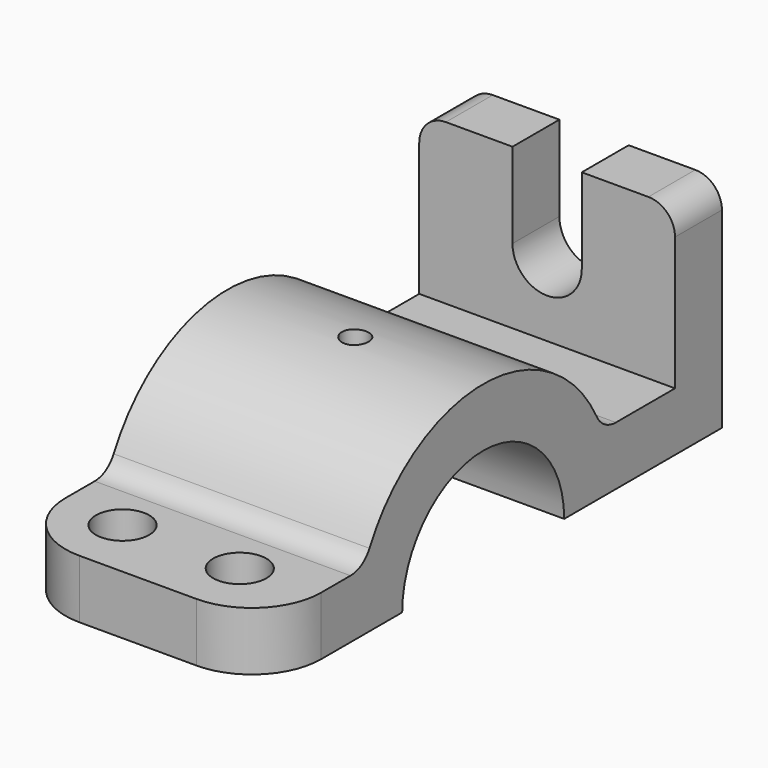
from build123d import *

# Parameters (mm, degrees)
F0_W     = 11
F0_H     = 11
F0_H_2   = 30
F1_DEPTH = 24
F3_DEPTH = 12.5
F4_R     = 2.5
F4_R_2   = 5
F5_DEPTH = 56
F6_R     = 13
F7_R     = 5
F8_R     = 5


with BuildPart() as f1:
    # F0 (on Right) → F1 (new body, symmetric)
    with BuildSketch(Plane.YZ):
        with BuildLine():
            Line((-51, 0), (-30, 0))
            ThreePointArc((-30, 0), (-29.4730143031, 5.5983415304), (-27.9105714739, 11))
            Line((-27.9105714739, 11), (-51, 11))
            Line((-51, 11), (-51, 0))
        make_face()
        with BuildLine():
            ThreePointArc((-27.9105714739, 11), (-29.4730143031, 5.5983415304), (-30, 0))
            Line((-30, 0), (-19, 0))
            ThreePointArc((-19, 0), (-18.1017503893, 5.7729223833), (-15.4919333848, 11))
            Line((-15.4919333848, 11), (-27.9105714739, 11))
        make_face()
        with BuildLine():
            Line((15.4919333848, 11), (27.9105714739, 11))
            ThreePointArc((27.9105714739, 11), (0, 30), (-27.9105714739, 11))
            Line((-27.9105714739, 11), (-15.4919333848, 11))
            ThreePointArc((-15.4919333848, 11), (0, 19), (15.4919333848, 11))
        make_face()
        with BuildLine():
            Line((19, 0), (30, 0))
            ThreePointArc((30, 0), (29.4730143031, 5.5983415304), (27.9105714739, 11))
            Line((27.9105714739, 11), (15.4919333848, 11))
            ThreePointArc((15.4919333848, 11), (18.1017503893, 5.7729223833), (19, 0))
        make_face()
        with BuildLine():
            ThreePointArc((27.9105714739, 11), (29.4730143031, 5.5983415304), (30, 0))
            Line((30, 0), (45, 0))
            Line((45, 0), (45, 11))
            Line((45, 11), (27.9105714739, 11))
        make_face()
        with Locations((50.5, 5.5)):
            Rectangle(F0_W, F0_H)
        with Locations((50.5, 26)):
            Rectangle(F0_W, F0_H_2)
    extrude(amount=F1_DEPTH, both=True)

    # F2 (on face) → F3 (cut, symmetric)
    with BuildSketch(Plane(origin=(0, 56, 0), x_dir=(-1, 0, 0), z_dir=(0, 1, 0))):
        with BuildLine():
            ThreePointArc((-6.5, 25), (0, 18.5), (6.5, 25))
            ThreePointArc((6.5, 25), (0, 31.5), (-6.5, 25))
        make_face()
        with BuildLine():
            ThreePointArc((-6.5, 25), (0, 31.5), (6.5, 25))
            Line((6.5, 25), (6.5, 41))
            Line((6.5, 41), (-6.5, 41))
            Line((-6.5, 41), (-6.5, 25))
        make_face()
    extrude(amount=F3_DEPTH, both=True, mode=Mode.SUBTRACT)

    # F4 (on Top) → F5 (cut, symmetric)
    with BuildSketch(Plane.XY):
        Circle(F4_R)
        with Locations((-12.1131800115, -39.455285737)):
            Circle(F4_R_2)
        with Locations((9.8868199885, -39.455285737)):
            Circle(F4_R_2)
    extrude(amount=F5_DEPTH, both=True, mode=Mode.SUBTRACT)

    # F6
    f6_edges = [f1.edges().sort_by_distance(p)[0] for p in [
        (-24, -51, 5.5),
        (24, -51, 5.5),
    ]]
    fillet(f6_edges, radius=F6_R)

    # F7
    f7_edges = [f1.edges().sort_by_distance(p)[0] for p in [
        (-24, 50.5, 41),
        (24, 50.5, 41),
    ]]
    fillet(f7_edges, radius=F7_R)

    # F8
    f8_edges = [f1.edges().sort_by_distance(p)[0] for p in [
        (0, 27.910571, 11),
        (0, -27.910571, 11),
    ]]
    fillet(f8_edges, radius=F8_R)


solid = f1.part
